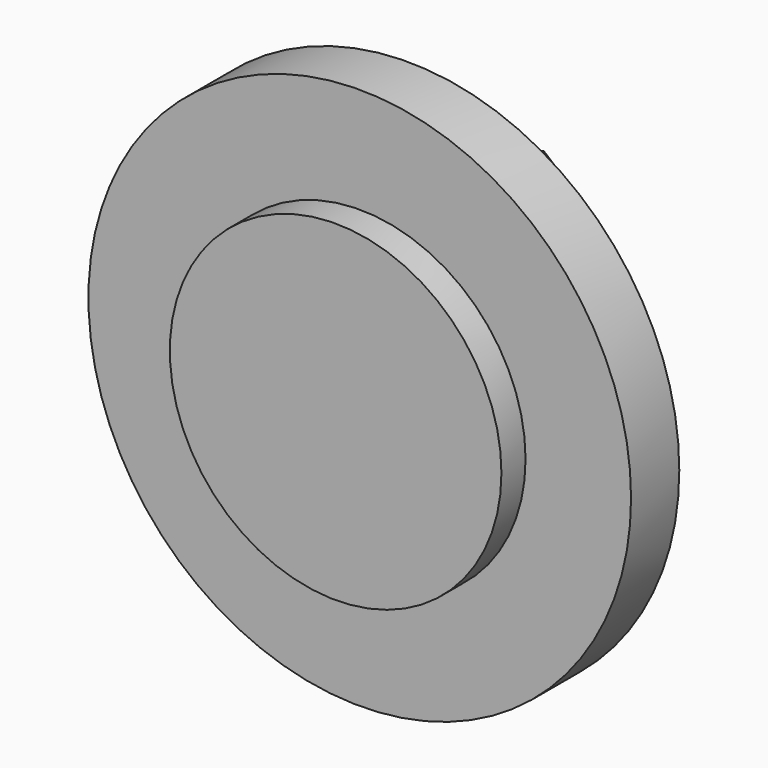
from build123d import *

# Parameters (mm, degrees)
F0_R     = 14.2875
F1_DEPTH = 3.175
F2_R     = 8.73125
F3_DEPTH = 1.5875
F5_DEPTH = 1.5875
F6_R     = 7.9375
F6_R_2   = 6.35
F7_DEPTH = 1.5875
F8_COUNT = 6


with BuildPart() as f1:
    # F0 (on Front) → F1 (new body)
    with BuildSketch(Plane.XZ):
        Circle(F0_R)
    extrude(amount=F1_DEPTH)

    # F2 (on face) → F3 (join)
    with BuildSketch(Plane.XZ.offset(3.175)):
        Circle(F2_R)
    extrude(amount=F3_DEPTH)

    # F4 (on face) → F5 (join)
    with BuildSketch(Plane(origin=(0, 0, 0), x_dir=(-1, 0, 0), z_dir=(0, 1, 0))):
        Polygon((11.4293787458, -1.8054905687), (12.8345400717, -0.6283202405), (12.5176613259, 1.1771703282), (10.7956212542, 1.8054905687), (9.3904599283, 0.6283202405), (9.7073386741, -1.1771703282), align=None)
    extrude(amount=F5_DEPTH)

    # F6 (on face) → F7 (join)
    with BuildSketch(Plane(origin=(0, 0, 0), x_dir=(-1, 0, 0), z_dir=(0, 1, 0))):
        Circle(F6_R)
        Circle(F6_R_2, mode=Mode.SUBTRACT)
    extrude(amount=F7_DEPTH)

    # F8: F1 ×6 about axis
    f8_axis = Axis((0, 1.5875, 0), (0, 1, 0))


with BuildPart() as f1_1:
    add(f1.part)
    for i in range(1, F8_COUNT):
        add(f1.part.rotate(f8_axis, i * 360 / F8_COUNT))


solid = f1_1.part
